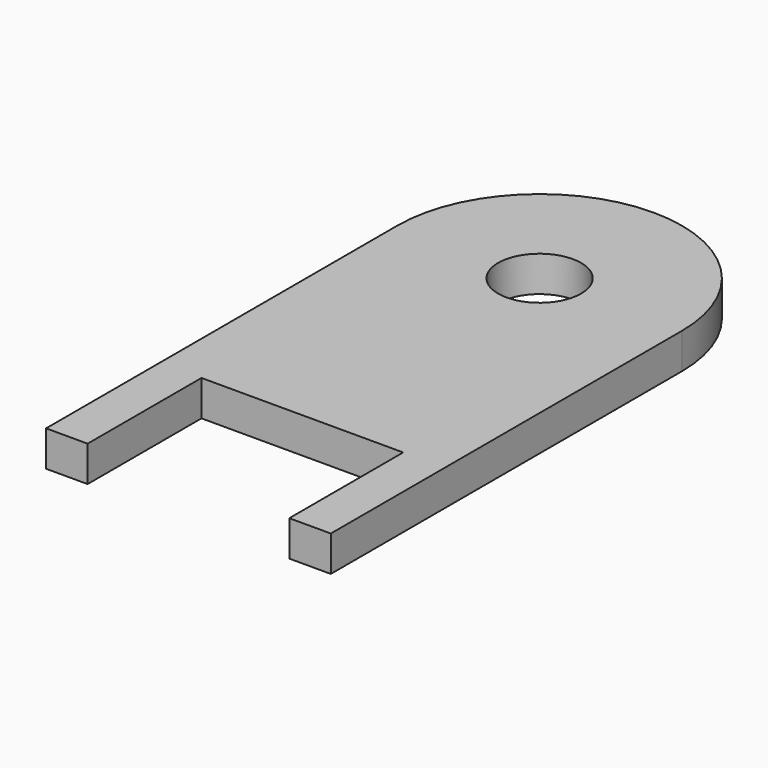
from build123d import *

# Parameters (mm, degrees)
F0_R     = 6.15
F0_R_2   = 3.5
F0_W     = 3.5
F0_H     = 12
F1_DEPTH = 3


with BuildPart() as f1:
    # F0 (on Top) → F1 (new body)
    with BuildSketch(Plane.XY):
        with BuildLine():
            Line((8.5, -25), (8.5, 8.470537173))
            ThreePointArc((8.5, 8.470537173), (0, 12), (-8.5, 8.470537173))
            Line((-8.5, 8.470537173), (-8.5, -25))
            Line((-8.5, -25), (8.5, -25))
        make_face()
        Circle(F0_R, mode=Mode.SUBTRACT)
        Circle(F0_R)
        Circle(F0_R_2, mode=Mode.SUBTRACT)
        with BuildLine():
            Line((12, -25), (12, 0))
            ThreePointArc((12, 0), (11.0905365064, 4.582575695), (8.5, 8.470537173))
            Line((8.5, 8.470537173), (8.5, -25))
            Line((8.5, -25), (12, -25))
        make_face()
        with BuildLine():
            Line((-8.5, -25), (-8.5, 8.470537173))
            ThreePointArc((-8.5, 8.470537173), (-11.0905365064, 4.582575695), (-12, 0))
            Line((-12, 0), (-12, -25))
            Line((-12, -25), (-8.5, -25))
        make_face()
        with Locations((10.25, -31)):
            Rectangle(F0_W, F0_H)
        with Locations((-10.25, -31)):
            Rectangle(F0_W, F0_H)
    extrude(amount=-F1_DEPTH)


solid = f1.part
